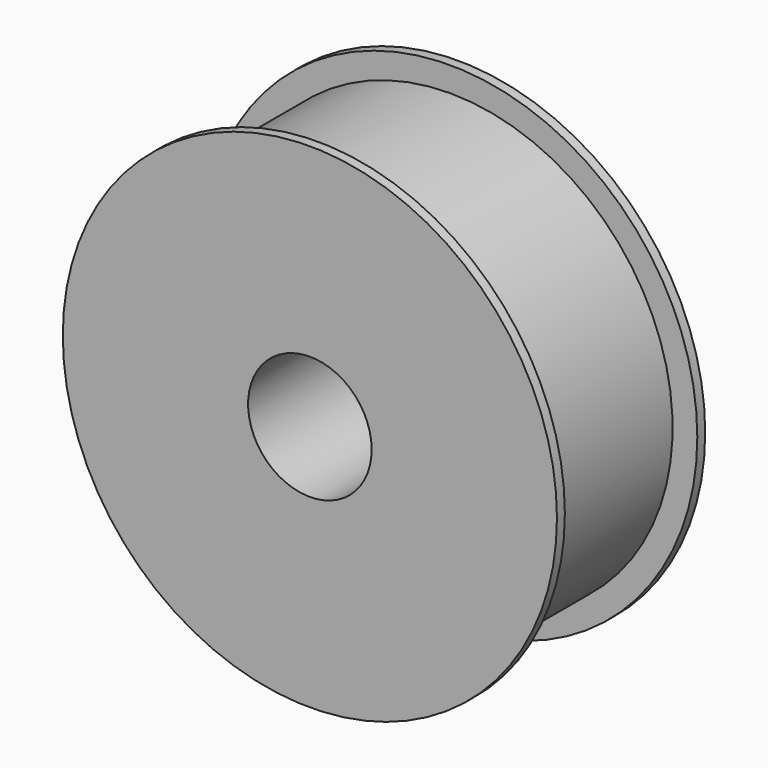
from build123d import *

# Parameters (mm, degrees)
F0_R     = 100
F0_R_2   = 25
F1_DEPTH = 75
F2_W     = 67
F2_H     = 10


with BuildPart() as f1:
    # F0 (on Front) → F1 (new body)
    with BuildSketch(Plane.XZ):
        Circle(F0_R)
        Circle(F0_R_2, mode=Mode.SUBTRACT)
    extrude(amount=F1_DEPTH)

    # F2 (on Right) → F3 (revolve, cut)
    with BuildSketch(Plane.YZ):
        with Locations((-37.5, 95)):
            Rectangle(F2_W, F2_H)
    revolve(axis=Axis((0, -37.5, 0), (0, 1, 0)), mode=Mode.SUBTRACT)


solid = f1.part
